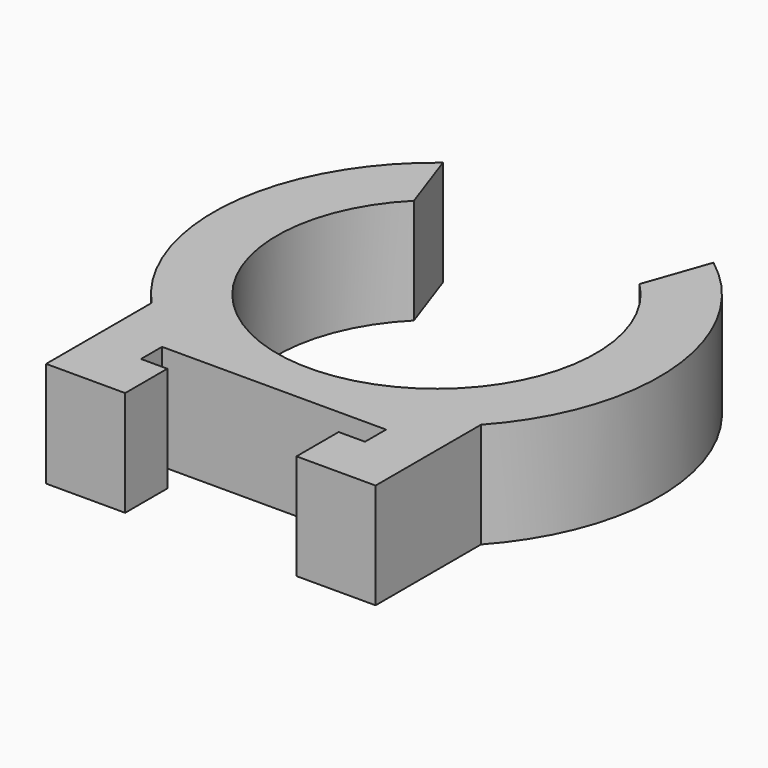
from build123d import *

# Parameters (mm, degrees)
PAD_DEPTH = 4


with BuildPart() as part:
    # Sketch → Pad (new body)
    with BuildSketch(Plane.XY):
        with BuildLine():
            Line((-6.25, -6.24398), (-6.25, -11.24398))
            Line((-6.25, -11.24398), (-3.25, -11.24398))
            Line((-3.25, -11.24398), (-3.25, -9.24398))
            Line((-3.25, -9.24398), (-4.25, -9.24398))
            Line((-4.25, -9.24398), (-4.25, -8.24398))
            Line((-4.25, -8.24398), (4.25, -8.24398))
            Line((4.25, -8.24398), (4.25, -9.24398))
            Line((4.25, -9.24398), (3.25, -9.24398))
            Line((3.25, -9.24398), (3.25, -11.24398))
            Line((3.25, -11.24398), (6.25, -11.24398))
            Line((6.25, -11.24398), (6.25, -6.24398))
            ThreePointArc((6.25, -6.24398), (8.424703, 0.213043), (5.133293, 6.178704))
            Line((4.277996, 3.733721), (5.133293, 6.178704))
            ThreePointArc((-4.277996, 3.733721), (0, -6.594275), (4.277996, 3.733721))
            Line((-4.277996, 3.733721), (-5.133293, 6.178704))
            ThreePointArc((-5.133293, 6.178704), (-8.424703, 0.213043), (-6.25, -6.24398))
        make_face()
    extrude(amount=PAD_DEPTH)


solid = part.part
